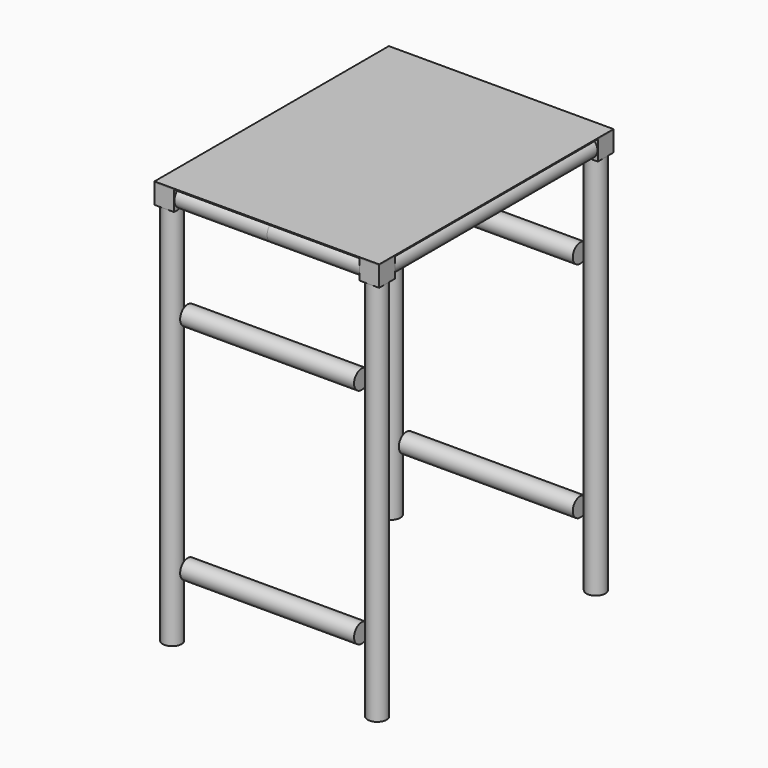
from build123d import *

# Parameters (mm, degrees)
F0_R      = 14.0462
F1_DEPTH  = 571.5
F2_R      = 14.0462
F3_DEPTH  = 137.795
F4_W      = 29.21
F4_H      = 29.21
F5_DEPTH  = 29.21
F6_R      = 14.0462
F7_DEPTH  = 8.509
F8_R      = 14.0462
F9_DEPTH  = 8.509
F10_R     = 14.0462
F11_DEPTH = 377.19
F12_W     = 334.01
F12_H     = 435.61
F13_DEPTH = 1.524


with BuildPart() as f1:
    # F0 (on Top) → F1 (new body)
    with BuildSketch(Plane.XY):
        with Locations((-152.4, 203.2)):
            Circle(F0_R)
        with Locations((152.4, 203.2)):
            Circle(F0_R)
        with Locations((-152.4, -203.2)):
            Circle(F0_R)
        with Locations((152.4, -203.2)):
            Circle(F0_R)
    extrude(amount=F1_DEPTH)


with BuildPart() as f3:
    # F2 (on Right) → F3 (new body, symmetric)
    with BuildSketch(Plane.YZ):
        with Locations((203.2, 101.6)):
            Circle(F2_R)
        with Locations((203.2, 433.705)):
            Circle(F2_R)
        with Locations((203.2, 586.105)):
            Circle(F2_R)
        with Locations((-203.2, 586.105)):
            Circle(F2_R)
        with Locations((-203.2, 433.705)):
            Circle(F2_R)
        with Locations((-203.2, 101.6)):
            Circle(F2_R)
    extrude(amount=F3_DEPTH, both=True)

    # F6 (on face) → F7 (cut)
    with BuildSketch(Plane(origin=(-137.795, 0, 0), x_dir=(0, -1, 0), z_dir=(-1, 0, 0))):
        with Locations((-203.2, 433.705)):
            Circle(F6_R)
        with Locations((203.2, 433.705)):
            Circle(F6_R)
        with Locations((-203.2, 101.6)):
            Circle(F6_R)
        with Locations((203.2, 101.6)):
            Circle(F6_R)
    extrude(amount=-F7_DEPTH, mode=Mode.SUBTRACT)

    # F8 (on face) → F9 (cut)
    with BuildSketch(Plane.YZ.offset(137.795)):
        with Locations((203.2, 101.6)):
            Circle(F8_R)
        with Locations((203.2, 433.705)):
            Circle(F8_R)
        with Locations((-203.2, 433.705)):
            Circle(F8_R)
        with Locations((-203.2, 101.6)):
            Circle(F8_R)
    extrude(amount=-F9_DEPTH, mode=Mode.SUBTRACT)


with BuildPart() as f5:
    # F4 (on face) → F5 (new body)
    with BuildSketch(Plane.XY.offset(571.5)):
        with Locations((152.4, -203.2)):
            Rectangle(F4_W, F4_H)
        with Locations((152.4, 203.2)):
            Rectangle(F4_W, F4_H)
        with Locations((-152.4, 203.2)):
            Rectangle(F4_W, F4_H)
        with Locations((-152.4, -203.2)):
            Rectangle(F4_W, F4_H)
    extrude(amount=F5_DEPTH)


with BuildPart() as f11:
    # F10 (on face) → F11 (new body, through all)
    with BuildSketch(Plane.XZ.offset(-188.595)):
        with Locations((152.4, 586.105)):
            Circle(F10_R)
        with Locations((-152.4, 586.105)):
            Circle(F10_R)
    extrude(amount=F11_DEPTH)


with BuildPart() as f13:
    # F12 (on face) → F13 (new body)
    with BuildSketch(Plane.XY.offset(600.71)):
        Rectangle(F12_W, F12_H)
    extrude(amount=F13_DEPTH)


solid = Compound([f1.part, f3.part, f5.part, f11.part, f13.part])
